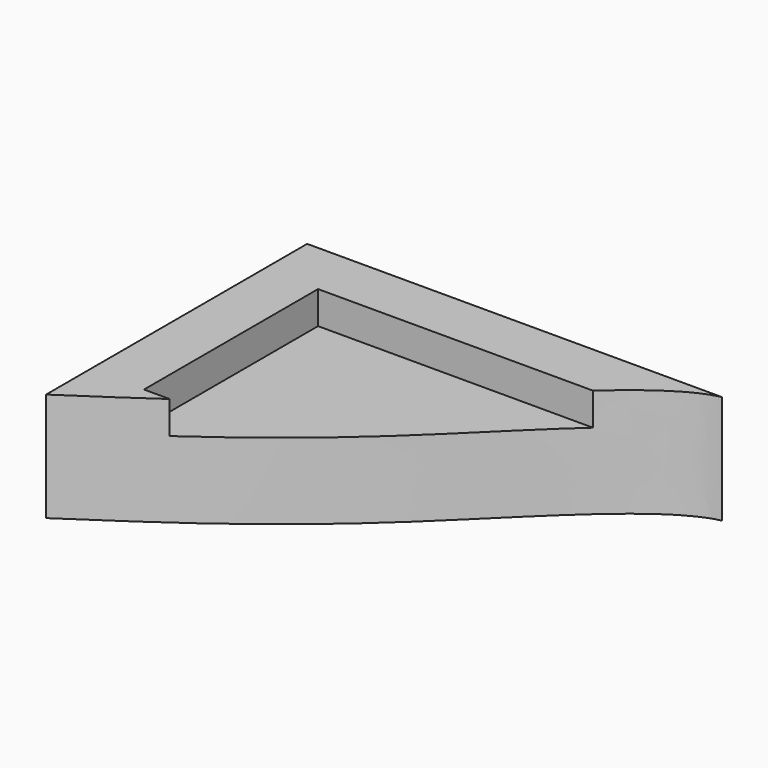
from build123d import *

# Parameters (mm, degrees)
F0_W     = 508
F0_H     = 381
F1_DEPTH = 127
F2_W     = 381
F2_H     = 254
F3_DEPTH = 38.1
F5_DEPTH = 127.001


with BuildPart() as f1:
    # F0 (on Top) → F1 (new body)
    with BuildSketch(Plane.XY):
        with Locations((254, 190.5)):
            Rectangle(F0_W, F0_H)
    extrude(amount=F1_DEPTH)

    # F2 (on face) → F3 (cut)
    with BuildSketch(Plane.XY.offset(127)):
        with Locations((254, 190.5)):
            Rectangle(F2_W, F2_H)
    extrude(amount=-F3_DEPTH, mode=Mode.SUBTRACT)

    # F4 (on face) → F5 (cut, through all)
    with BuildSketch(Plane.XY.offset(127)):
        with BuildLine():
            Line((444.5, 317.5), (384.4547422164, 317.5))
            add(Edge.make_bspline(
                [(93.5035740318, 63.5), (147.2071592582, 101.4136170576), (240.8619840218, 173.7700888717), (344.3781582981, 281.8687103961), (384.4547422164, 317.4999999999)],
                knots=[0.1203807823, 0.1203807823, 0.1203807823, 0.1203807823, 0.3259105165, 0.4706282149, 0.4706282149, 0.4706282149, 0.4706282149], degree=3))
            Line((93.5035740318, 63.5), (444.5, 63.5))
            Line((444.5, 63.5), (444.5, 317.5))
        make_face()
        with BuildLine():
            Line((508, 0), (508, 381))
            Line((508, 381), (484.2276728464, 381))
            add(Edge.make_bspline(
                [(384.4547422164, 317.4999999999), (421.0763564574, 350.0595451308), (455.4476445846, 375.0758613525), (484.2276728464, 381)],
                knots=[0.4706282149, 0.4706282149, 0.4706282149, 0.4706282149, 0.6028699184, 0.6028699184, 0.6028699184, 0.6028699184], degree=3))
            Line((384.4547422164, 317.5), (444.5, 317.5))
            Line((444.5, 317.5), (444.5, 63.5))
            Line((444.5, 63.5), (93.5035740318, 63.5))
            add(Edge.make_bspline(
                [(0, 0), (31.0244285766, 20.6468112151), (62.0488571531, 41.2936224301), (93.5035740318, 63.5)],
                knots=[0, 0, 0, 0, 0.1203807823, 0.1203807823, 0.1203807823, 0.1203807823], degree=3))
            Line((0, 0), (508, 0))
        make_face()
        with BuildLine():
            add(Edge.make_bspline(
                [(508, 381), (576.339941908, 364.0495678727), (596.4256136065, 182.0247839364), (616.511285305, 0)],
                knots=[0.6416145202, 0.6416145202, 0.6416145202, 0.6416145202, 1, 1, 1, 1], degree=3))
            Line((508, 381), (508, 0))
            Line((508, 0), (616.511285305, 0))
        make_face()
    extrude(amount=-F5_DEPTH, mode=Mode.SUBTRACT)


solid = f1.part
